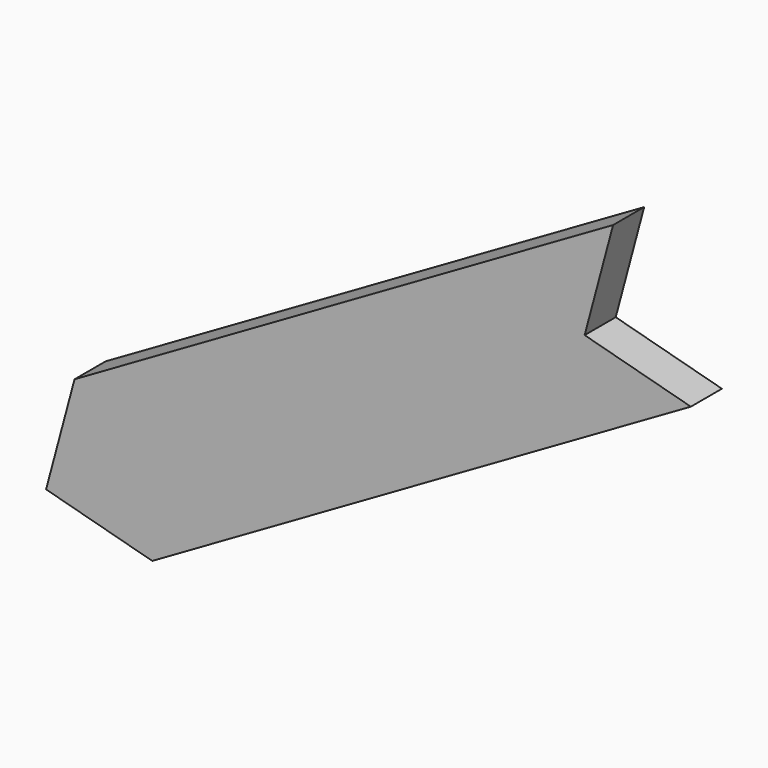
from build123d import *

# Parameters (mm, degrees)
F1_DEPTH = 3.175


with BuildPart() as f1:
    # F0 (on Front) → F1 (new body, symmetric)
    with BuildSketch(Plane.XZ):
        Polygon((-204.323407, -103.301477), (-208.97193, -120.65), (-197.973407, -114.3), align=None)
        Polygon((-208.97193, -120.65), (-191.623407, -125.298523), (-197.973407, -114.3), align=None)
        Polygon((-197.973407, -114.3), (-191.623407, -125.298523), (-103.635226, -74.498523), (-120.983749, -69.85), align=None)
        Polygon((-204.323407, -103.301477), (-197.973407, -114.3), (-120.983749, -69.85), (-116.335226, -52.501477), align=None)
    extrude(amount=F1_DEPTH, both=True)


solid = f1.part
